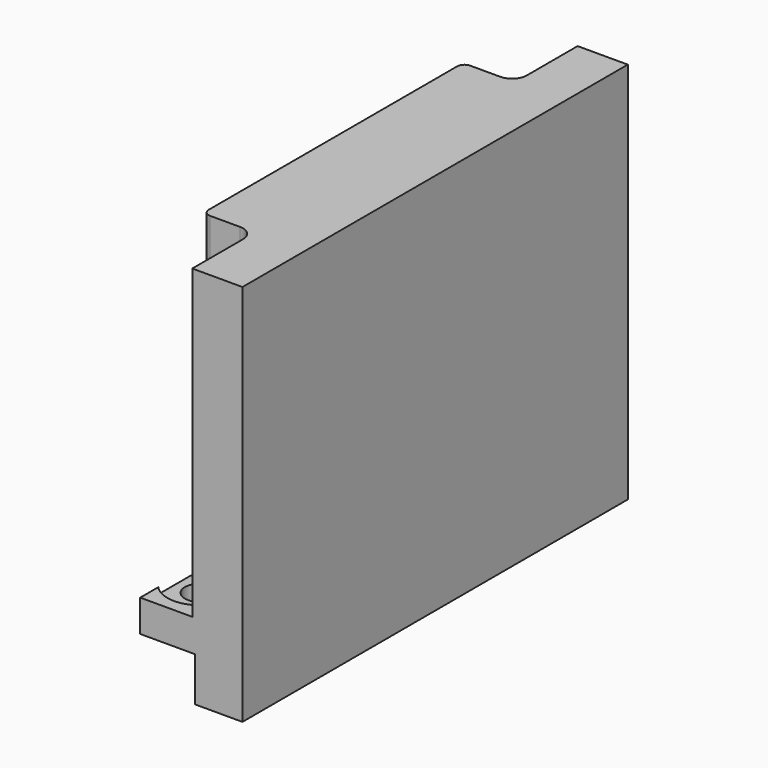
from build123d import *

# Parameters (mm, degrees)
SKETCH_W        = 7.45
SKETCH_H        = 65.42
SKETCH_R        = 2.125
PAD_DEPTH       = 4.35
POCKET_DEPTH    = 0.85
POCKET_FACE1_W  = 65.42
POCKET_FACE1_H  = 4.35
PAD001_DEPTH    = 6.43
PAD001_FACE13_W = 65.42
PAD001_FACE13_H = 6.43
PAD002_DEPTH    = 6
PAD003_DEPTH    = 41.65
FILLET_R        = 2
FILLET001_R     = 1


with BuildPart() as part:
    # Sketch → Pad (new body)
    with BuildSketch(Plane.XY):
        Rectangle(SKETCH_W, SKETCH_H)
        with Locations((-0.43, -26.585)):
            Circle(SKETCH_R, mode=Mode.SUBTRACT)
        with Locations((-0.43, 26.585)):
            Circle(SKETCH_R, mode=Mode.SUBTRACT)
    extrude(amount=PAD_DEPTH)

    # Sketch001 (on DatumPlane) → Pocket (cut)
    with BuildSketch(Plane.XY.offset(4.35)):
        with BuildLine():
            ThreePointArc((3.345, -24.135638), (-0.039757, -22.101953), (-3.725, -23.520204))
            Line((-3.725, -23.520204), (-3.725, -29.649796))
            ThreePointArc((-3.725, -29.649796), (-0.039757, -31.068047), (3.345, -29.034362))
            Line((3.345, -24.135638), (3.345, -29.034362))
        make_face()
        with BuildLine():
            ThreePointArc((-3.725, 23.520204), (-0.039757, 22.101953), (3.345, 24.135638))
            Line((3.345, 29.034362), (3.345, 24.135638))
            ThreePointArc((3.345, 29.034362), (-0.039757, 31.068047), (-3.725, 29.649796))
            Line((-3.725, 29.649796), (-3.725, 23.520204))
        make_face()
    extrude(amount=-POCKET_DEPTH, mode=Mode.SUBTRACT)

    # Pocket Face1 → Pad001 (add)
    with BuildSketch(Plane(origin=(3.725, 0, 2.175), x_dir=(0, -1, 0), z_dir=(1, 0, 0))):
        Rectangle(POCKET_FACE1_W, POCKET_FACE1_H)
    extrude(amount=PAD001_DEPTH)

    # Pad001 Face13 → Pad002 (add)
    with BuildSketch(Plane(origin=(6.94, 0, 0), x_dir=(0, -1, 0), z_dir=(0, 0, -1))):
        Rectangle(PAD001_FACE13_W, PAD001_FACE13_H)
    extrude(amount=PAD002_DEPTH)

    # Sketch002 (on Face5 of Pad002) → Pad003 (join)
    with BuildSketch(Plane.XY.offset(4.35)):
        Polygon((10.155, 32.71), (10.155, -32.71), (3.345, -32.71), (3.345, -22.085), (-3.725, -22.085), (-3.725, 22.085), (3.345, 22.085), (3.345, 32.71), align=None)
    extrude(amount=PAD003_DEPTH)

    # Fillet
    fillet_edges = [part.edges().sort_by_distance(p)[0] for p in [
        (3.345, -22.085, 25.175),
        (3.345, 22.085, 25.175),
    ]]
    fillet(fillet_edges, radius=FILLET_R)

    # Fillet001
    fillet001_edges = [part.edges().sort_by_distance(p)[0] for p in [
        (-3.725, -22.085, 25.175),
        (-3.725, 22.085, 25.175),
    ]]
    fillet(fillet001_edges, radius=FILLET001_R)


solid = part.part
